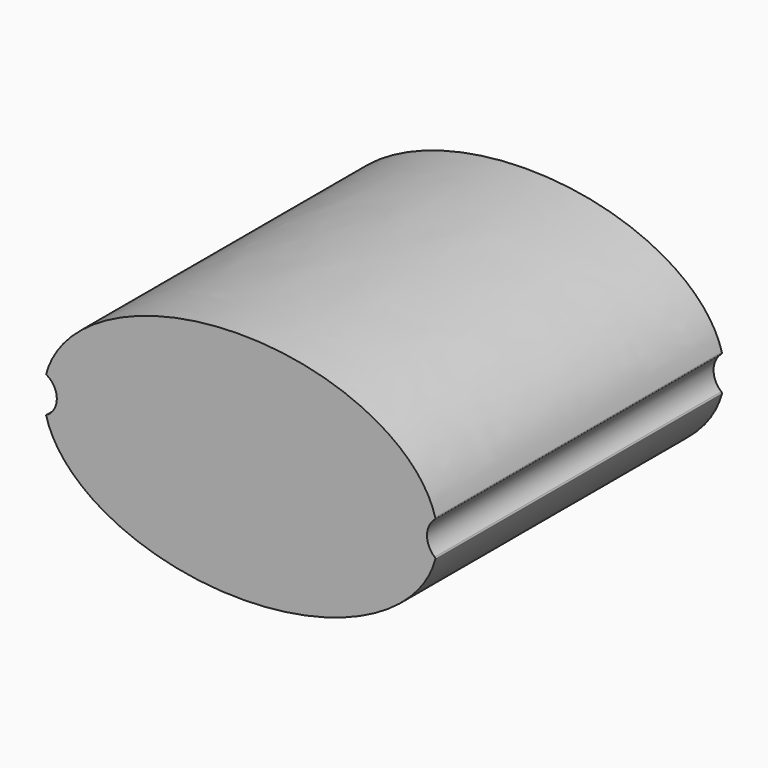
from build123d import *

# Parameters (mm, degrees)
F1_DEPTH = 100


with BuildPart() as f1:
    # F0 (on Front) → F1 (new body)
    with BuildSketch(Plane.XZ):
        with BuildLine():
            ThreePointArc((54.1495764968, 4.6173835388), (54.3048343311, 4.8505256331), (54.3103478054, 5.1305789011))
            add(Edge.make_bspline(
                [(54.3103478054, 5.1305789011), (46.8903739099, 32.556418617), (-0.1118567417, 32.4999327871), (-47.1140873933, 32.4434469572), (-54.3452147559, 5)],
                knots=[0.1585271192, 0.1585271192, 0.1585271192, 1.5728300871, 1.5728300871, 2.9871330551, 2.9871330551, 2.9871330551], degree=2, weights=[1, 0.7602155557, 1, 0.7602155557, 1]))
            ThreePointArc((-54.3452147559, 5), (-51.3452147559, 0), (-54.3452147559, -5))
            add(Edge.make_bspline(
                [(-54.3452147559, -5), (-47.1140873933, -32.4434469572), (-0.1118567417, -32.4999327871), (46.8903739099, -32.556418617), (54.3103478054, -5.1305789011)],
                knots=[3.2960522521, 3.2960522521, 3.2960522521, 4.71035522, 4.71035522, 6.124658188, 6.124658188, 6.124658188], degree=2, weights=[1, 0.7602155557, 1, 0.7602155557, 1]))
            ThreePointArc((54.3103478054, -5.1305789011), (54.3048343311, -4.8505256331), (54.1495764968, -4.6173835388))
            ThreePointArc((54.1495764968, -4.6173835388), (52, 0), (54.1495764968, 4.6173835388))
        make_face()
    extrude(amount=-F1_DEPTH)


solid = f1.part
